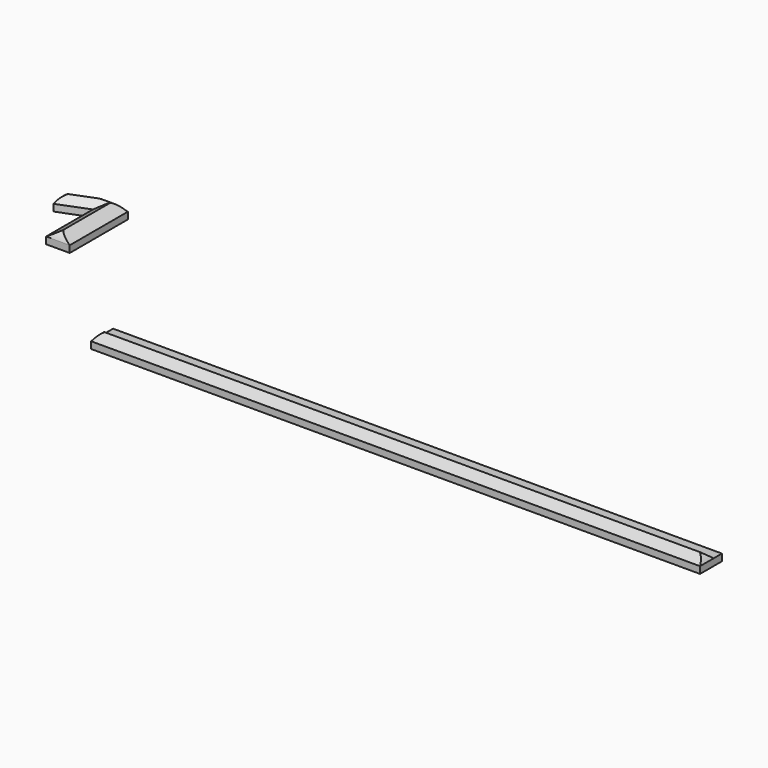
from build123d import *

# Parameters (mm, degrees)
F1_DEPTH  = 178
F3_DEPTH  = 8
F5_DEPTH  = 2
F12_DEPTH = 19.5476922495
F14_DEPTH = 15.7185643911


with BuildPart() as f1:
    # F0 (on Right) → F1 (new body)
    with BuildSketch(Plane.YZ):
        Polygon((-8, 0), (0, 0), (0, 2), (-3, 2), (-5.5779432878, 4), (-8, 2), align=None)
    extrude(amount=F1_DEPTH)

    # F2 (on face) → F3 (cut, through all)
    with BuildSketch(Plane.XZ.offset(8)):
        with BuildLine():
            ThreePointArc((0, 2), (0.847681624, 3.152318376), (2, 4))
            Line((2, 4), (0, 4))
            Line((0, 4), (0, 2))
        make_face()
        with BuildLine():
            ThreePointArc((176, 4), (177.152318376, 3.152318376), (178, 2))
            Line((178, 2), (178, 4))
            Line((178, 4), (176, 4))
        make_face()
    extrude(amount=-F3_DEPTH, mode=Mode.SUBTRACT)


with BuildPart() as f5:
    # F4 (on Top) → F5 (new body)
    with BuildSketch(Plane.XY):
        Polygon((-33.4805399179, 47.2342856228), (-40.3967089951, 47.2342856228), (-49.1991043091, 43.7761992216), (-49.1991043091, 39.689373225), (-40.3967089951, 43.1474596262), (-40.3967089951, 26.0142218322), (-33.4805399179, 26.0142218322), align=None)
    extrude(amount=F5_DEPTH)

    # F9: sweep along a path in F7
    with BuildLine(Plane.XY.offset(4)) as f9_path:
        Line((-49.1991043091, 41.7327862233), (-36.9386244565, 46.5494068292))
    # F8 (on face) → F9 (sweep)
    with BuildSketch(Plane(origin=(-49.1991043091, 0, 0), x_dir=(0, -1, 0), z_dir=(-1, 0, 0))):
        Polygon((-41.7466796935, 4.0009669028), (-43.7761992216, 2), (-39.689373225, 2), align=None)
    sweep(path=f9_path.line)

    # F11: sweep along a path in F7
    with BuildLine(Plane.XY.offset(4)) as f11_path:
        Line((-36.9386244565, 47.2342856228), (-36.9386244565, 26.0142218322))
    # F10 (on face) → F11 (sweep)
    with BuildSketch(Plane.XZ.offset(-26.0142218322)):
        Polygon((-36.9565300643, 4.006314557), (-40.3967089951, 2), (-33.4805399179, 2), align=None)
    sweep(path=f11_path.line)

    # F10 (on face) → F12 (cut, up to face)
    with BuildSketch(Plane.XZ.offset(-26.0142218322)):
        with BuildLine():
            ThreePointArc((-49.1991043091, 2), (-48.3897429551, 3.1910299775), (-47.1991043091, 4.0009669028))
            Line((-47.1991043091, 4.0009669028), (-49.1991043091, 4.0009669028))
            Line((-49.1991043091, 4.0009669028), (-49.1991043091, 2))
        make_face()
    extrude(amount=-F12_DEPTH, mode=Mode.SUBTRACT)

    # F13 (on face) → F14 (cut, through all)
    with BuildSketch(Plane.YZ.offset(-33.4805399179)):
        with BuildLine():
            ThreePointArc((26.0142218322, 2), (26.8229801131, 3.1937970945), (28.0142218322, 4.006314557))
            Line((28.0142218322, 4.006314557), (26.0142218322, 4.006314557))
            Line((26.0142218322, 4.006314557), (26.0142218322, 2))
        make_face()
        with BuildLine():
            ThreePointArc((45.2342856228, 4.006314557), (46.4255273418, 3.1937970945), (47.2342856228, 2))
            Line((47.2342856228, 2), (48.8923490047, 2))
            Line((48.8923490047, 2), (48.8923490047, 4.006314557))
            Line((48.8923490047, 4.006314557), (45.2342856228, 4.006314557))
        make_face()
    extrude(amount=-F14_DEPTH, mode=Mode.SUBTRACT)


solid = Compound([f1.part, f5.part])
